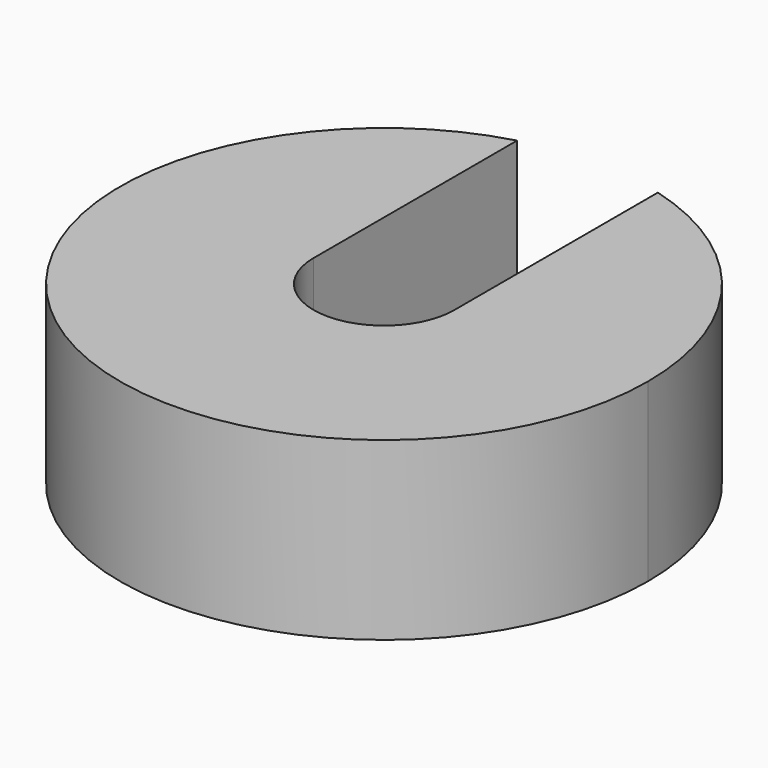
from build123d import *

# Parameters (mm, degrees)
F1_DEPTH = 2
F2_DEPTH = 10


with BuildPart() as f1:
    # F0 (on Top) → F1 (new body)
    with BuildSketch(Plane.XY):
        with BuildLine():
            Line((4, 14.456832), (4, 0))
            ThreePointArc((4, 0), (0, -4), (-4, 0))
            Line((-4, 0), (-4, 14.456832))
            ThreePointArc((-4, 14.456832), (-9.082951, -11.937336), (15, 0))
            ThreePointArc((15, 0), (11.937336, 9.082951), (4, 14.456832))
        make_face()
        with BuildLine():
            ThreePointArc((-4, 0), (0, 4), (4, 0))
            Line((4, 0), (4, 14.456832))
            ThreePointArc((4, 14.456832), (0, 15), (-4, 14.456832))
            Line((-4, 14.456832), (-4, 0))
        make_face()
        with BuildLine():
            ThreePointArc((-4, 0), (0, -4), (4, 0))
            ThreePointArc((4, 0), (0, 4), (-4, 0))
        make_face()
    extrude(amount=F1_DEPTH)

    # F0 (on Top) → F2 (join)
    with BuildSketch(Plane.XY):
        with BuildLine():
            Line((4, 14.456832), (4, 0))
            ThreePointArc((4, 0), (0, -4), (-4, 0))
            Line((-4, 0), (-4, 14.456832))
            ThreePointArc((-4, 14.456832), (-9.082951, -11.937336), (15, 0))
            ThreePointArc((15, 0), (11.937336, 9.082951), (4, 14.456832))
        make_face()
    extrude(amount=F2_DEPTH)


solid = f1.part
